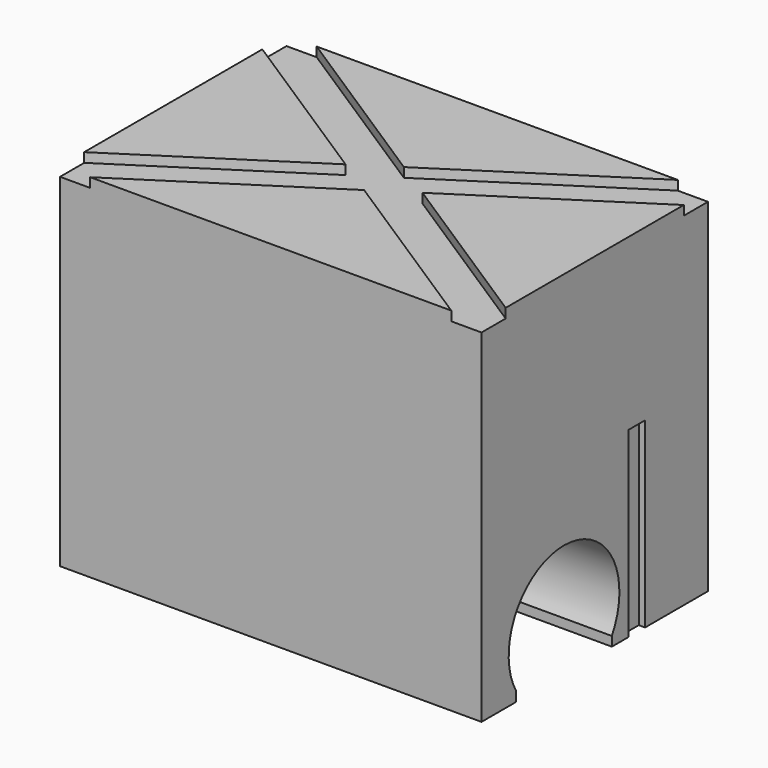
from build123d import *

# Parameters (mm, degrees)
F0_W     = 1701.8
F0_H     = 1143
F1_DEPTH = 1422.4
F2_R     = 80.01
F3_DEPTH = 160.02
F5_DEPTH = 38.1
F6_W     = 83.82
F6_H     = 736.6
F7_DEPTH = 25.4
F9_DEPTH = 965.2


with BuildPart() as f1:
    # F0 (on Top) → F1 (new body)
    with BuildSketch(Plane.XY):
        with Locations((-6.391168, -71.989974)):
            Rectangle(F0_W, F0_H)
    extrude(amount=F1_DEPTH)

    # F2 (on face) → F3 (cut)
    with BuildSketch(Plane(origin=(0, 499.510026, 0), x_dir=(-1, 0, 0), z_dir=(0, 1, 0))):
        with Locations((-553.678832, 930.91)):
            Circle(F2_R)
    extrude(amount=-F3_DEPTH, mode=Mode.SUBTRACT)

    # F4 (on face) → F5 (cut)
    with BuildSketch(Plane.XY.offset(1422.4)):
        Polygon((-857.291168, -643.489974), (-735.371168, -643.489974), (-6.391168, -172.348559), (722.588832, -643.489974), (844.508832, -643.489974), (844.508832, -521.569974), (148.890026, -71.989974), (844.508832, 377.590026), (844.508832, 499.510026), (722.588832, 499.510026), (-6.391168, 28.368612), (-735.371168, 499.510026), (-857.291168, 499.510026), (-857.291168, 377.590026), (-161.672362, -71.989974), (-857.291168, -521.569974), align=None)
    extrude(amount=-F5_DEPTH, mode=Mode.SUBTRACT)

    # F6 (on face) → F7 (cut)
    with BuildSketch(Plane.YZ.offset(844.508832)):
        with Locations((140.100026, 368.3)):
            Rectangle(F6_W, F6_H)
    extrude(amount=-F7_DEPTH, mode=Mode.SUBTRACT)

    # F8 (on face) → F9 (cut)
    with BuildSketch(Plane.YZ.offset(844.508832)):
        with BuildLine():
            Line((14.370026, 0), (14.370026, 38.1))
            ThreePointArc((14.370026, 38.1), (-226.929974, 458.349814), (-468.229974, 38.1))
            Line((-468.229974, 38.1), (-468.229974, 0))
            Line((-468.229974, 0), (14.370026, 0))
        make_face()
    extrude(amount=-F9_DEPTH, mode=Mode.SUBTRACT)


solid = f1.part
